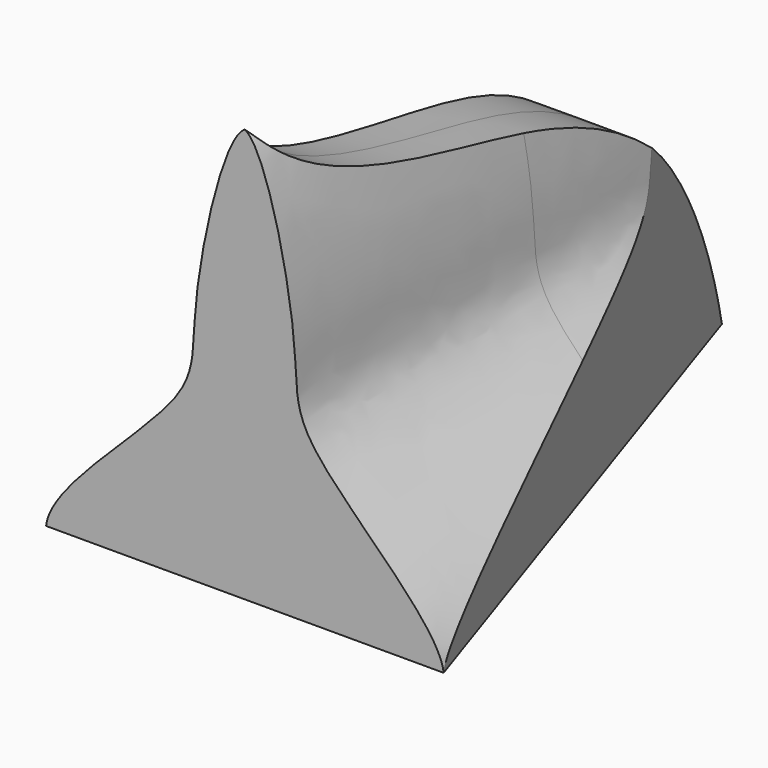
from build123d import *

# Parameters (mm, degrees)
F2_DEPTH      = 9.525
F2_DEPTH_BACK = 9.525
F4_DEPTH      = 25.4
F4_DEPTH_BACK = 25.4
F6_DEPTH      = 25.4


with BuildPart() as f2:
    # F1 (on Front) → F2 (new body, two sides)
    with BuildSketch(Plane.XZ) as f2_sk:
        with BuildLine():
            add(Edge.make_bspline(
                [(-6.35, 0), (-6.2110349142, 1.2906979649), (-1.2972179352, 5.0159845421), (-1.9115572012, 7.3429921483), (-0.6704563662, 12.8414753028), (0, 13.2119530768)],
                knots=[0, 0, 0, 0, 0.3821787562, 0.6432599793, 1, 1, 1, 1], degree=3))
            Line((-6.35, 0), (6.35, 0))
            add(Edge.make_bspline(
                [(6.35, 0), (6.2110349142, 1.2906979649), (1.2972179352, 5.0159845421), (1.9115572012, 7.3429921483), (0.6704563662, 12.8414753028), (0, 13.2119530768)],
                knots=[0, 0, 0, 0, 0.3821787562, 0.6432599793, 1, 1, 1, 1], degree=3))
        make_face()
    extrude(amount=F2_DEPTH)
    extrude(f2_sk.sketch, amount=-F2_DEPTH_BACK)

    # F3 (on Right) → F4 (cut, two sides)
    with BuildSketch(Plane.YZ) as f4_sk:
        with BuildLine():
            add(Edge.make_bspline(
                [(9.525, 0), (8.6071506136, 3.0190129192), (5.4813965302, 7.4387582474), (0.4496493374, 10.0745490682), (-7.747826098, 10.8756744565), (-9.525, 13.2119530768)],
                knots=[0, 0, 0, 0, 0.3382746758, 0.6237759463, 1, 1, 1, 1], degree=3))
            add(Edge.make_bspline(
                [(9.525, 0), (9.525, 0.430232655), (9.525, 2.1022275023), (9.525, 4.5498915517), (9.525, 8.4001506644), (9.525, 11.132140176), (9.525, 13.0884604855), (9.525, 13.2119530768)],
                knots=[0, 0, 0, 0, 1.2906979649, 5.0159845421, 7.3429921483, 12.8414753028, 13.2119530768, 13.2119530768, 13.2119530768, 13.2119530768], degree=3))
            Line((9.525, 13.2119530768), (-9.525, 13.2119530768))
        make_face()
    extrude(amount=F4_DEPTH, mode=Mode.SUBTRACT)
    extrude(f4_sk.sketch, amount=-F4_DEPTH_BACK, mode=Mode.SUBTRACT)

    # F5 (on Top) → F6 (intersect)
    with BuildSketch(Plane.XY):
        Polygon((0, 9.525), (-6.35, -9.525), (6.35, -9.525), align=None)
    extrude(amount=F6_DEPTH, mode=Mode.INTERSECT)


solid = f2.part
